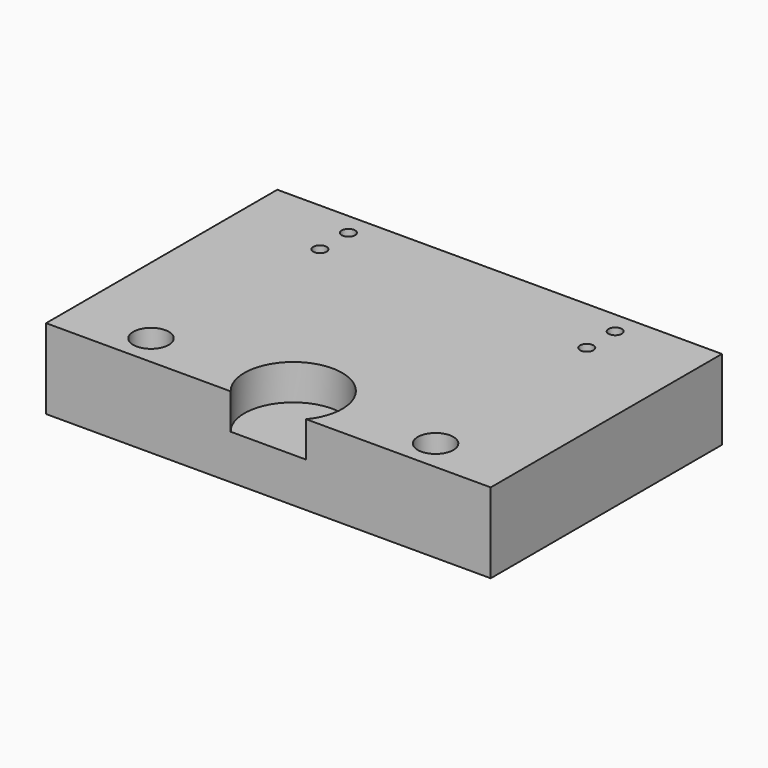
from build123d import *

# Parameters (mm, degrees)
CYLINDER003_R     = 11
CYLINDER003_DEPTH = 15
CYLINDER001_R     = 1.5
CYLINDER001_DEPTH = 25
CYLINDER_R        = 4
CYLINDER_DEPTH    = 25
CYLINDER002_R     = 1.5
CYLINDER002_DEPTH = 25
BOX_W             = 50
BOX_H             = 65
BOX_DEPTH         = 18


with BuildPart() as cilindro003:
    # Cylinder003 → Cylinder003 (new body)
    with BuildSketch(Plane(origin=(50, 7, 10), x_dir=(1, 0, 0), z_dir=(0, 0, 1))):
        Circle(CYLINDER003_R)
    extrude(amount=CYLINDER003_DEPTH)


with BuildPart() as cilindro001:
    # Cylinder001 → Cylinder001 (new body)
    with BuildSketch(Plane(origin=(20, 52, 0), x_dir=(1, 0, 0), z_dir=(0, 0, 1))):
        Circle(CYLINDER001_R)
    extrude(amount=CYLINDER001_DEPTH)


with BuildPart() as cilindro:
    # Cylinder → Cylinder (new body)
    with BuildSketch(Plane(origin=(18, 7, 8), x_dir=(1, 0, 0), z_dir=(0, 0, 1))):
        Circle(CYLINDER_R)
    extrude(amount=CYLINDER_DEPTH)


with BuildPart() as fusion:
    # Cylinder002 → Cylinder002 (new body)
    with BuildSketch(Plane(origin=(20, 60, 0), x_dir=(1, 0, 0), z_dir=(0, 0, 1))):
        Circle(CYLINDER002_R)
    extrude(amount=CYLINDER002_DEPTH)

    # Fusion: union Cilindro001, Cilindro
    add(cilindro001.part)
    add(cilindro.part)


with BuildPart() as izquierda:
    # Box → Box (new body)
    with BuildSketch(Plane.XY):
        with Locations((25, 32.5)):
            Rectangle(BOX_W, BOX_H)
    extrude(amount=BOX_DEPTH)

    # Cut: cut Fusion
    add(fusion.part, mode=Mode.SUBTRACT)


with BuildPart() as z_abajo:
    # mirror: instance of Izquierda
    add(izquierda.part.mirror(Plane(origin=(50, 0, 0), x_dir=(0, -1, 0), z_dir=(1, 0, 0))))

    # Fusion001: union Izquierda
    add(izquierda.part)

    # Cut001: cut Cilindro003
    add(cilindro003.part, mode=Mode.SUBTRACT)


solid = z_abajo.part
